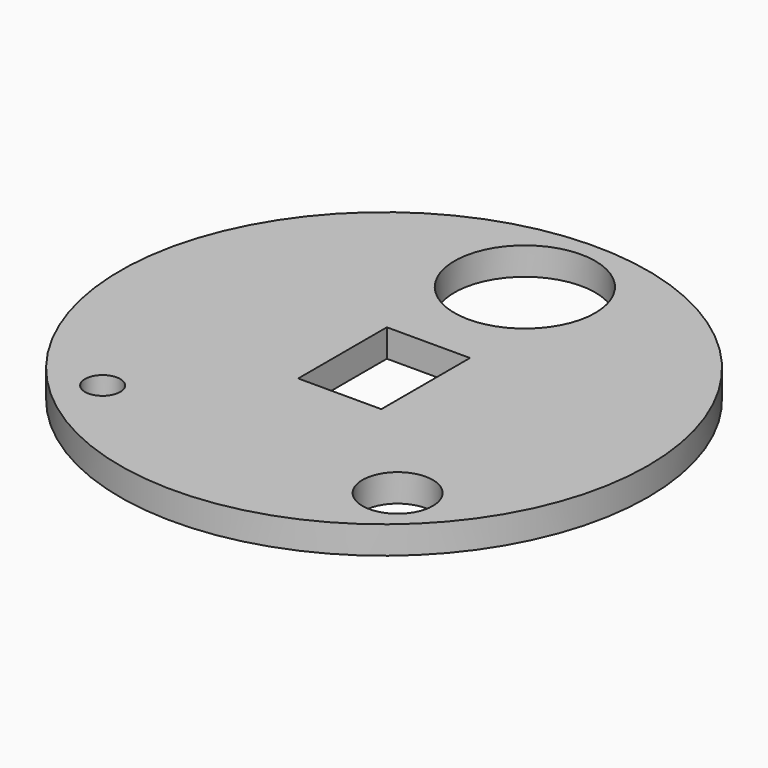
from build123d import *

# Parameters (mm, degrees)
F0_R     = 47.625
F0_R_2   = 3.175
F0_R_3   = 6.35
F0_W     = 15
F0_H     = 20
F0_R_4   = 12.7
F1_DEPTH = 5


with BuildPart() as f1:
    # F0 (on Top) → F1 (new body)
    with BuildSketch(Plane.XY):
        Circle(F0_R)
        with Locations((-27.678816, -28.877034)):
            Circle(F0_R_2, mode=Mode.SUBTRACT)
        with Locations((25.261652, -28.521202)):
            Circle(F0_R_3, mode=Mode.SUBTRACT)
        Rectangle(F0_W, F0_H, mode=Mode.SUBTRACT)
        with Locations((0, 31.75)):
            Circle(F0_R_4, mode=Mode.SUBTRACT)
    extrude(amount=F1_DEPTH)


solid = f1.part
